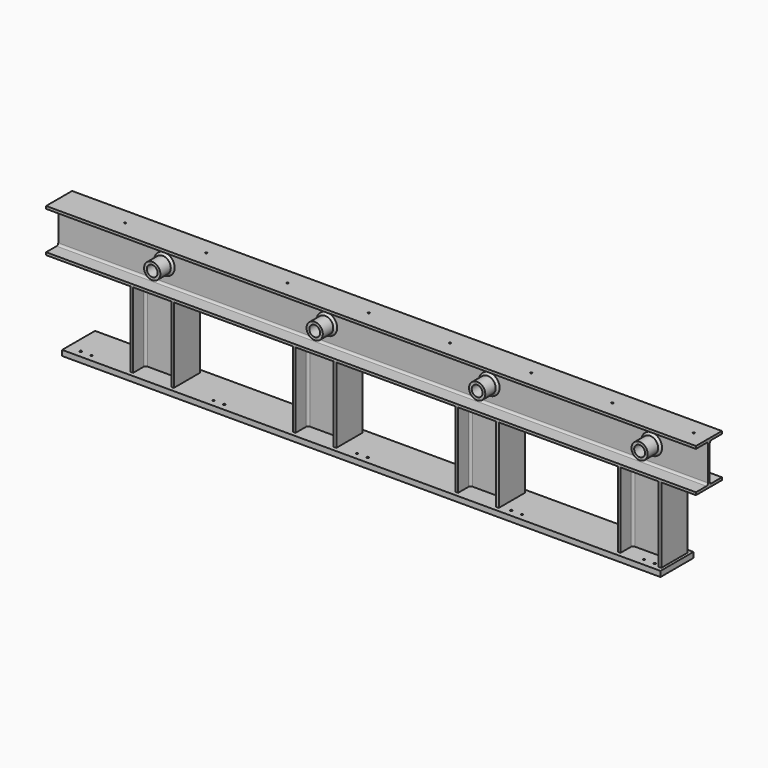
from build123d import *

# Parameters (mm, degrees)
F1_DEPTH  = 6000
F2_R      = 75
F2_R_2    = 50
F3_DEPTH  = 25
F4_DEPTH  = 150
F6_DEPTH  = 695
F7_W      = 5525
F7_H      = 380
F8_DEPTH  = 50
F9_SIZE   = 20
F11_D     = 17.5
F11_DEPTH = 47.5
F11_TIP   = 5.2575304165
F13_D     = 22
F14_D     = 17.5


with BuildPart() as f1:
    # F0 (on Right) → F1 (new body)
    with BuildSketch(Plane.YZ):
        with BuildLine():
            Line((-150, 0), (0, 0))
            Line((0, 0), (150, 0))
            Line((150, 0), (150, 24))
            Line((150, 24), (28.5, 24))
            ThreePointArc((28.5, 24), (15.0649711575, 29.5649711575), (9.5, 43))
            Line((9.5, 43), (9.5, 357))
            ThreePointArc((9.5, 357), (15.0649711575, 370.4350288425), (28.5, 376))
            Line((28.5, 376), (150, 376))
            Line((150, 376), (150, 400))
            Line((150, 400), (0, 400))
            Line((0, 400), (-150, 400))
            Line((-150, 400), (-150, 376))
            Line((-150, 376), (-28.5, 376))
            ThreePointArc((-28.5, 376), (-15.0649711575, 370.4350288425), (-9.5, 357))
            Line((-9.5, 357), (-9.5, 43))
            ThreePointArc((-9.5, 43), (-15.0649711575, 29.5649711575), (-28.5, 24))
            Line((-28.5, 24), (-150, 24))
            Line((-150, 24), (-150, 0))
        make_face()
    extrude(amount=-F1_DEPTH)

    # F2 (on Front) → F3 (cut, symmetric)
    with BuildSketch(Plane.XZ):
        with Locations((-5020, 190)):
            Circle(F2_R)
        with Locations((-5020, 190)):
            Circle(F2_R_2, mode=Mode.SUBTRACT)
        with Locations((-3520, 190)):
            Circle(F2_R)
        with Locations((-3520, 190)):
            Circle(F2_R_2, mode=Mode.SUBTRACT)
        with Locations((-2020, 190)):
            Circle(F2_R)
        with Locations((-2020, 190)):
            Circle(F2_R_2, mode=Mode.SUBTRACT)
        with Locations((-520, 190)):
            Circle(F2_R)
        with Locations((-520, 190)):
            Circle(F2_R_2, mode=Mode.SUBTRACT)
        with Locations((-5020, 190)):
            Circle(F2_R_2)
        with Locations((-3520, 190)):
            Circle(F2_R_2)
        with Locations((-2020, 190)):
            Circle(F2_R_2)
        with Locations((-520, 190)):
            Circle(F2_R_2)
    extrude(amount=F3_DEPTH, both=True, mode=Mode.SUBTRACT)

    # F2 (on Front) → F4 (join, symmetric)
    with BuildSketch(Plane.XZ):
        with Locations((-520, 190)):
            Circle(F2_R)
        with Locations((-520, 190)):
            Circle(F2_R_2, mode=Mode.SUBTRACT)
        with Locations((-2020, 190)):
            Circle(F2_R)
        with Locations((-2020, 190)):
            Circle(F2_R_2, mode=Mode.SUBTRACT)
        with Locations((-3520, 190)):
            Circle(F2_R)
        with Locations((-3520, 190)):
            Circle(F2_R_2, mode=Mode.SUBTRACT)
        with Locations((-5020, 190)):
            Circle(F2_R)
        with Locations((-5020, 190)):
            Circle(F2_R_2, mode=Mode.SUBTRACT)
    extrude(amount=F4_DEPTH, both=True)

    # F9
    f9_edges = [f1.edges().sort_by_distance(p)[0] for p in [
        (-5095, -9.5, 190),
        (-3595, -9.5, 190),
        (-2095, -9.5, 190),
        (-595, -9.5, 190),
        (-595, 9.5, 190),
        (-2095, 9.5, 190),
        (-3595, 9.5, 190),
        (-5095, 9.5, 190),
    ]]
    chamfer(f9_edges, length=F9_SIZE)

    # F11
    with Locations(Plane.XY.offset(400)):
        with Locations((-141, 0), (-891, 0), (-1641, 0), (-2391, 0), (-3141, 0), (-3891, 0), (-4641, 0), (-5391, 0)):
            Hole(F11_D / 2, depth=F11_DEPTH)
            with Locations((0, 0, -(F11_DEPTH + F11_TIP / 2))):  # 118° drill point
                Cone(0, F11_D / 2, F11_TIP, mode=Mode.SUBTRACT)


with BuildPart() as f6:
    # F5 (on Top) → F6 (new body)
    with BuildSketch(Plane.XY):
        with BuildLine():
            Line((-320, -150), (-320, 0))
            Line((-320, 0), (-320, 150))
            Line((-320, 150), (-344, 150))
            Line((-344, 150), (-344, 28.5))
            ThreePointArc((-344, 28.5), (-349.5649711575, 15.0649711575), (-363, 9.5))
            Line((-363, 9.5), (-677, 9.5))
            ThreePointArc((-677, 9.5), (-690.4350288425, 15.0649711575), (-696, 28.5))
            Line((-696, 28.5), (-696, 150))
            Line((-696, 150), (-720, 150))
            Line((-720, 150), (-720, 0))
            Line((-720, 0), (-720, -150))
            Line((-720, -150), (-696, -150))
            Line((-696, -150), (-696, -28.5))
            ThreePointArc((-696, -28.5), (-690.4350288425, -15.0649711575), (-677, -9.5))
            Line((-677, -9.5), (-363, -9.5))
            ThreePointArc((-363, -9.5), (-349.5649711575, -15.0649711575), (-344, -28.5))
            Line((-344, -28.5), (-344, -150))
            Line((-344, -150), (-320, -150))
        make_face()
    extrude(amount=-F6_DEPTH)


with BuildPart() as f6b:
    # F5 (on Top) → F6, piece 2 (new body)
    with BuildSketch(Plane.XY):
        with BuildLine():
            Line((-1820, -150), (-1820, 0))
            Line((-1820, 0), (-1820, 150))
            Line((-1820, 150), (-1844, 150))
            Line((-1844, 150), (-1844, 28.5))
            ThreePointArc((-1844, 28.5), (-1849.5649711575, 15.0649711575), (-1863, 9.5))
            Line((-1863, 9.5), (-2177, 9.5))
            ThreePointArc((-2177, 9.5), (-2190.4350288425, 15.0649711575), (-2196, 28.5))
            Line((-2196, 28.5), (-2196, 150))
            Line((-2196, 150), (-2220, 150))
            Line((-2220, 150), (-2220, 0))
            Line((-2220, 0), (-2220, -150))
            Line((-2220, -150), (-2196, -150))
            Line((-2196, -150), (-2196, -28.5))
            ThreePointArc((-2196, -28.5), (-2190.4350288425, -15.0649711575), (-2177, -9.5))
            Line((-2177, -9.5), (-1863, -9.5))
            ThreePointArc((-1863, -9.5), (-1849.5649711575, -15.0649711575), (-1844, -28.5))
            Line((-1844, -28.5), (-1844, -150))
            Line((-1844, -150), (-1820, -150))
        make_face()
    extrude(amount=-F6_DEPTH)


with BuildPart() as f6c:
    # F5 (on Top) → F6, piece 3 (new body)
    with BuildSketch(Plane.XY):
        with BuildLine():
            Line((-3320, -150), (-3320, 0))
            Line((-3320, 0), (-3320, 150))
            Line((-3320, 150), (-3344, 150))
            Line((-3344, 150), (-3344, 28.5))
            ThreePointArc((-3344, 28.5), (-3349.5649711575, 15.0649711575), (-3363, 9.5))
            Line((-3363, 9.5), (-3677, 9.5))
            ThreePointArc((-3677, 9.5), (-3690.4350288425, 15.0649711575), (-3696, 28.5))
            Line((-3696, 28.5), (-3696, 150))
            Line((-3696, 150), (-3720, 150))
            Line((-3720, 150), (-3720, 0))
            Line((-3720, 0), (-3720, -150))
            Line((-3720, -150), (-3696, -150))
            Line((-3696, -150), (-3696, -28.5))
            ThreePointArc((-3696, -28.5), (-3690.4350288425, -15.0649711575), (-3677, -9.5))
            Line((-3677, -9.5), (-3363, -9.5))
            ThreePointArc((-3363, -9.5), (-3349.5649711575, -15.0649711575), (-3344, -28.5))
            Line((-3344, -28.5), (-3344, -150))
            Line((-3344, -150), (-3320, -150))
        make_face()
    extrude(amount=-F6_DEPTH)


with BuildPart() as f6d:
    # F5 (on Top) → F6, piece 4 (new body)
    with BuildSketch(Plane.XY):
        with BuildLine():
            Line((-4820, -150), (-4820, 0))
            Line((-4820, 0), (-4820, 150))
            Line((-4820, 150), (-4844, 150))
            Line((-4844, 150), (-4844, 28.5))
            ThreePointArc((-4844, 28.5), (-4849.5649711575, 15.0649711575), (-4863, 9.5))
            Line((-4863, 9.5), (-5177, 9.5))
            ThreePointArc((-5177, 9.5), (-5190.4350288425, 15.0649711575), (-5196, 28.5))
            Line((-5196, 28.5), (-5196, 150))
            Line((-5196, 150), (-5220, 150))
            Line((-5220, 150), (-5220, 0))
            Line((-5220, 0), (-5220, -150))
            Line((-5220, -150), (-5196, -150))
            Line((-5196, -150), (-5196, -28.5))
            ThreePointArc((-5196, -28.5), (-5190.4350288425, -15.0649711575), (-5177, -9.5))
            Line((-5177, -9.5), (-4863, -9.5))
            ThreePointArc((-4863, -9.5), (-4849.5649711575, -15.0649711575), (-4844, -28.5))
            Line((-4844, -28.5), (-4844, -150))
            Line((-4844, -150), (-4820, -150))
        make_face()
    extrude(amount=-F6_DEPTH)


with BuildPart() as f8:
    # F7 (on face) → F8 (new body)
    with BuildSketch(Plane(origin=(0, 0, -695), x_dir=(1, 0, 0), z_dir=(0, 0, -1))):
        with Locations((-3057.5, 0)):
            Rectangle(F7_W, F7_H)
    extrude(amount=F8_DEPTH)

    # F13 (through all)
    with Locations(Plane.XY.offset(-695)):
        with Locations((-400, -125), (-1725, -125), (-3050, -125), (-4375, -125), (-5700, -125)):
            Hole(F13_D / 2)

    # F14 (through all)
    with Locations(Plane.XY.offset(-695)):
        with Locations((-500, -125), (-1625, -125), (-3150, -125), (-4475, -125), (-5600, -125)):
            Hole(F14_D / 2)


solid = Compound([f1.part, f6.part, f6b.part, f6c.part, f6d.part, f8.part])
